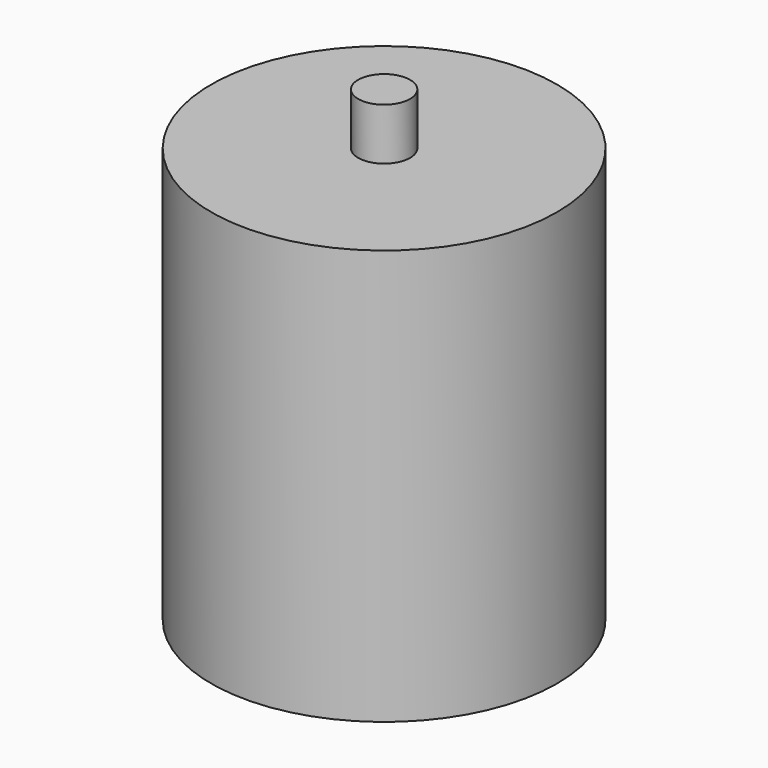
from build123d import *

# Parameters (mm, degrees)
SKETCH_R        = 10
PAD_DEPTH       = 24
SKETCH001_R     = 1.5
PAD001_DEPTH    = 3
SKETCH002_R     = 3
POCKET_DEPTH    = 3.16
SKETCH003_R     = 2.5
POCKET001_DEPTH = 3.4


with BuildPart() as part:
    # Sketch → Pad (new body)
    with BuildSketch(Plane.XY):
        Circle(SKETCH_R)
    extrude(amount=PAD_DEPTH)

    # Sketch001 → Pad001 (new body)
    with BuildSketch(Plane.XY.offset(24)):
        Circle(SKETCH001_R)
    extrude(amount=PAD001_DEPTH)

    # Sketch002 → Pocket (cut)
    with BuildSketch(Plane(origin=(0, 0, 0), x_dir=(1, 0, 0), z_dir=(0, 0, -1))):
        Circle(SKETCH002_R)
    extrude(amount=-POCKET_DEPTH, mode=Mode.SUBTRACT)

    # Sketch003 → Pocket001 (cut)
    with BuildSketch(Plane(origin=(0, 0, 3.16), x_dir=(1, 0, 0), z_dir=(0, 0, -1))):
        Circle(SKETCH003_R)
    extrude(amount=-POCKET001_DEPTH, mode=Mode.SUBTRACT)


solid = part.part
